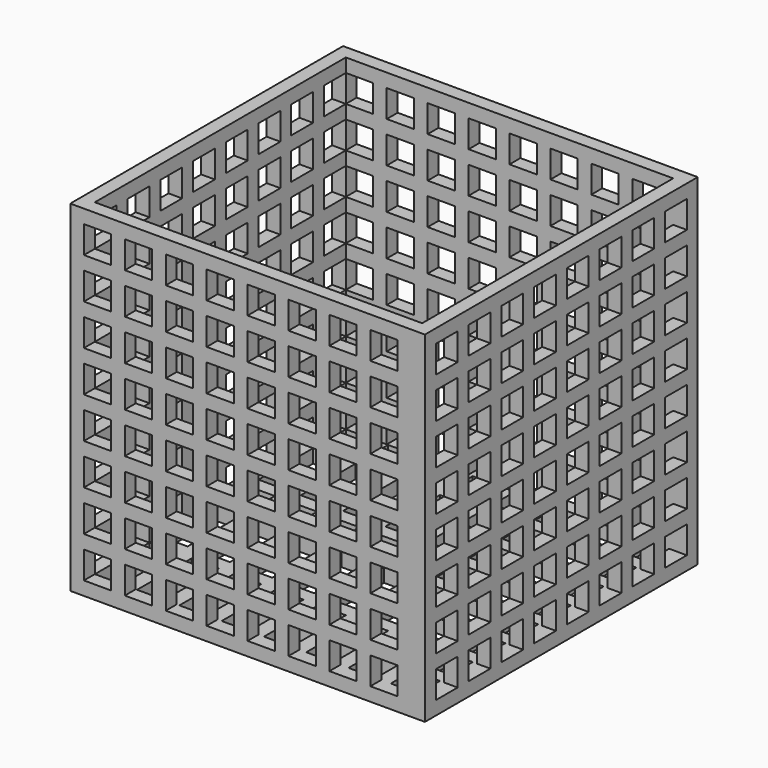
from build123d import *

# Parameters (mm, degrees)
F0_W     = 26
F0_H     = 25
F0_W_2   = 2
F0_H_2   = 2
F1_DEPTH = 1
F2_W     = 26
F2_H     = 25
F3_DEPTH = 24
F4_W     = 2
F4_H     = 2
F5_DEPTH = 30
F6_W     = 2
F6_H     = 2
F7_DEPTH = 30


with BuildPart() as f1:
    # F0 (on Top) → F1 (new body)
    with BuildSketch(Plane.XY):
        Rectangle(F0_W, F0_H)
        with Locations((-11, -10.5)):
            Rectangle(F0_W_2, F0_H_2, mode=Mode.SUBTRACT)
        with Locations((-7.9, -10.5)):
            Rectangle(F0_W_2, F0_H_2, mode=Mode.SUBTRACT)
        with Locations((-11, -7.5)):
            Rectangle(F0_W_2, F0_H_2, mode=Mode.SUBTRACT)
        with Locations((-7.9, -7.5)):
            Rectangle(F0_W_2, F0_H_2, mode=Mode.SUBTRACT)
        with Locations((-4.8, -10.5)):
            Rectangle(F0_W_2, F0_H_2, mode=Mode.SUBTRACT)
        with Locations((-1.7, -10.5)):
            Rectangle(F0_W_2, F0_H_2, mode=Mode.SUBTRACT)
        with Locations((-4.8, -7.5)):
            Rectangle(F0_W_2, F0_H_2, mode=Mode.SUBTRACT)
        with Locations((-1.7, -7.5)):
            Rectangle(F0_W_2, F0_H_2, mode=Mode.SUBTRACT)
        with Locations((-11, -4.5)):
            Rectangle(F0_W_2, F0_H_2, mode=Mode.SUBTRACT)
        with Locations((-7.9, -4.5)):
            Rectangle(F0_W_2, F0_H_2, mode=Mode.SUBTRACT)
        with Locations((-11, -1.5)):
            Rectangle(F0_W_2, F0_H_2, mode=Mode.SUBTRACT)
        with Locations((-7.9, -1.5)):
            Rectangle(F0_W_2, F0_H_2, mode=Mode.SUBTRACT)
        with Locations((-4.8, -4.5)):
            Rectangle(F0_W_2, F0_H_2, mode=Mode.SUBTRACT)
        with Locations((-1.7, -4.5)):
            Rectangle(F0_W_2, F0_H_2, mode=Mode.SUBTRACT)
        with Locations((-4.8, -1.5)):
            Rectangle(F0_W_2, F0_H_2, mode=Mode.SUBTRACT)
        with Locations((-1.7, -1.5)):
            Rectangle(F0_W_2, F0_H_2, mode=Mode.SUBTRACT)
        with Locations((1.4, -10.5)):
            Rectangle(F0_W_2, F0_H_2, mode=Mode.SUBTRACT)
        with Locations((4.5, -10.5)):
            Rectangle(F0_W_2, F0_H_2, mode=Mode.SUBTRACT)
        with Locations((1.4, -7.5)):
            Rectangle(F0_W_2, F0_H_2, mode=Mode.SUBTRACT)
        with Locations((4.5, -7.5)):
            Rectangle(F0_W_2, F0_H_2, mode=Mode.SUBTRACT)
        with Locations((7.6, -10.5)):
            Rectangle(F0_W_2, F0_H_2, mode=Mode.SUBTRACT)
        with Locations((10.7, -10.5)):
            Rectangle(F0_W_2, F0_H_2, mode=Mode.SUBTRACT)
        with Locations((7.6, -7.5)):
            Rectangle(F0_W_2, F0_H_2, mode=Mode.SUBTRACT)
        with Locations((10.7, -7.5)):
            Rectangle(F0_W_2, F0_H_2, mode=Mode.SUBTRACT)
        with Locations((1.4, -4.5)):
            Rectangle(F0_W_2, F0_H_2, mode=Mode.SUBTRACT)
        with Locations((4.5, -4.5)):
            Rectangle(F0_W_2, F0_H_2, mode=Mode.SUBTRACT)
        with Locations((1.4, -1.5)):
            Rectangle(F0_W_2, F0_H_2, mode=Mode.SUBTRACT)
        with Locations((4.5, -1.5)):
            Rectangle(F0_W_2, F0_H_2, mode=Mode.SUBTRACT)
        with Locations((7.6, -4.5)):
            Rectangle(F0_W_2, F0_H_2, mode=Mode.SUBTRACT)
        with Locations((10.7, -4.5)):
            Rectangle(F0_W_2, F0_H_2, mode=Mode.SUBTRACT)
        with Locations((7.6, -1.5)):
            Rectangle(F0_W_2, F0_H_2, mode=Mode.SUBTRACT)
        with Locations((10.7, -1.5)):
            Rectangle(F0_W_2, F0_H_2, mode=Mode.SUBTRACT)
        with Locations((-11, 1.5)):
            Rectangle(F0_W_2, F0_H_2, mode=Mode.SUBTRACT)
        with Locations((-7.9, 1.5)):
            Rectangle(F0_W_2, F0_H_2, mode=Mode.SUBTRACT)
        with Locations((-11, 4.5)):
            Rectangle(F0_W_2, F0_H_2, mode=Mode.SUBTRACT)
        with Locations((-7.9, 4.5)):
            Rectangle(F0_W_2, F0_H_2, mode=Mode.SUBTRACT)
        with Locations((-4.8, 1.5)):
            Rectangle(F0_W_2, F0_H_2, mode=Mode.SUBTRACT)
        with Locations((-1.7, 1.5)):
            Rectangle(F0_W_2, F0_H_2, mode=Mode.SUBTRACT)
        with Locations((-4.8, 4.5)):
            Rectangle(F0_W_2, F0_H_2, mode=Mode.SUBTRACT)
        with Locations((-1.7, 4.5)):
            Rectangle(F0_W_2, F0_H_2, mode=Mode.SUBTRACT)
        with Locations((-11, 7.5)):
            Rectangle(F0_W_2, F0_H_2, mode=Mode.SUBTRACT)
        with Locations((-7.9, 7.5)):
            Rectangle(F0_W_2, F0_H_2, mode=Mode.SUBTRACT)
        with Locations((-11, 10.5)):
            Rectangle(F0_W_2, F0_H_2, mode=Mode.SUBTRACT)
        with Locations((-7.9, 10.5)):
            Rectangle(F0_W_2, F0_H_2, mode=Mode.SUBTRACT)
        with Locations((-4.8, 7.5)):
            Rectangle(F0_W_2, F0_H_2, mode=Mode.SUBTRACT)
        with Locations((-1.7, 7.5)):
            Rectangle(F0_W_2, F0_H_2, mode=Mode.SUBTRACT)
        with Locations((-4.8, 10.5)):
            Rectangle(F0_W_2, F0_H_2, mode=Mode.SUBTRACT)
        with Locations((-1.7, 10.5)):
            Rectangle(F0_W_2, F0_H_2, mode=Mode.SUBTRACT)
        with Locations((1.4, 1.5)):
            Rectangle(F0_W_2, F0_H_2, mode=Mode.SUBTRACT)
        with Locations((4.5, 1.5)):
            Rectangle(F0_W_2, F0_H_2, mode=Mode.SUBTRACT)
        with Locations((1.4, 4.5)):
            Rectangle(F0_W_2, F0_H_2, mode=Mode.SUBTRACT)
        with Locations((4.5, 4.5)):
            Rectangle(F0_W_2, F0_H_2, mode=Mode.SUBTRACT)
        with Locations((7.6, 1.5)):
            Rectangle(F0_W_2, F0_H_2, mode=Mode.SUBTRACT)
        with Locations((10.7, 1.5)):
            Rectangle(F0_W_2, F0_H_2, mode=Mode.SUBTRACT)
        with Locations((7.6, 4.5)):
            Rectangle(F0_W_2, F0_H_2, mode=Mode.SUBTRACT)
        with Locations((10.7, 4.5)):
            Rectangle(F0_W_2, F0_H_2, mode=Mode.SUBTRACT)
        with Locations((1.4, 7.5)):
            Rectangle(F0_W_2, F0_H_2, mode=Mode.SUBTRACT)
        with Locations((4.5, 7.5)):
            Rectangle(F0_W_2, F0_H_2, mode=Mode.SUBTRACT)
        with Locations((1.4, 10.5)):
            Rectangle(F0_W_2, F0_H_2, mode=Mode.SUBTRACT)
        with Locations((4.5, 10.5)):
            Rectangle(F0_W_2, F0_H_2, mode=Mode.SUBTRACT)
        with Locations((7.6, 7.5)):
            Rectangle(F0_W_2, F0_H_2, mode=Mode.SUBTRACT)
        with Locations((10.7, 7.5)):
            Rectangle(F0_W_2, F0_H_2, mode=Mode.SUBTRACT)
        with Locations((7.6, 10.5)):
            Rectangle(F0_W_2, F0_H_2, mode=Mode.SUBTRACT)
        with Locations((10.7, 10.5)):
            Rectangle(F0_W_2, F0_H_2, mode=Mode.SUBTRACT)
    extrude(amount=F1_DEPTH)

    # F2 (on face) → F3 (join)
    with BuildSketch(Plane.XY.offset(1)):
        Rectangle(F2_W, F2_H)
        Polygon((-12, 9.5), (-12, 11.5), (-10, 11.5), (-8.9, 11.5), (-6.9, 11.5), (-5.8, 11.5), (-3.8, 11.5), (-2.7, 11.5), (-0.7, 11.5), (0.4, 11.5), (2.4, 11.5), (3.5, 11.5), (5.5, 11.5), (6.6, 11.5), (8.6, 11.5), (9.7, 11.5), (11.7, 11.5), (12, 11.5), (12, -11.5), (11.7, -11.5), (9.7, -11.5), (8.6, -11.5), (6.6, -11.5), (5.5, -11.5), (3.5, -11.5), (2.4, -11.5), (0.4, -11.5), (-0.7, -11.5), (-2.7, -11.5), (-3.8, -11.5), (-5.8, -11.5), (-6.9, -11.5), (-8.9, -11.5), (-10, -11.5), (-12, -11.5), (-12, -9.5), (-12, -8.5), (-12, -6.5), (-12, -5.5), (-12, -3.5), (-12, -2.5), (-12, -0.5), (-12, 0.5), (-12, 2.5), (-12, 3.5), (-12, 5.5), (-12, 6.5), (-12, 8.5), align=None, mode=Mode.SUBTRACT)
    extrude(amount=F3_DEPTH)

    # F4 (on face) → F5 (cut)
    with BuildSketch(Plane(origin=(-13, 0, 0), x_dir=(0, -1, 0), z_dir=(-1, 0, 0))):
        with Locations((-10.5, 23)):
            Rectangle(F4_W, F4_H)
        with Locations((-7.5, 23)):
            Rectangle(F4_W, F4_H)
        with Locations((-4.5, 23)):
            Rectangle(F4_W, F4_H)
        with Locations((-1.5, 23)):
            Rectangle(F4_W, F4_H)
        with Locations((1.5, 23)):
            Rectangle(F4_W, F4_H)
        with Locations((4.5, 23)):
            Rectangle(F4_W, F4_H)
        with Locations((7.5, 23)):
            Rectangle(F4_W, F4_H)
        with Locations((10.5, 23)):
            Rectangle(F4_W, F4_H)
        with Locations((10.5, 20)):
            Rectangle(F4_W, F4_H)
        with Locations((7.5, 20)):
            Rectangle(F4_W, F4_H)
        with Locations((4.5, 20)):
            Rectangle(F4_W, F4_H)
        with Locations((1.5, 20)):
            Rectangle(F4_W, F4_H)
        with Locations((-1.5, 20)):
            Rectangle(F4_W, F4_H)
        with Locations((-4.5, 20)):
            Rectangle(F4_W, F4_H)
        with Locations((-7.5, 20)):
            Rectangle(F4_W, F4_H)
        with Locations((-10.5, 20)):
            Rectangle(F4_W, F4_H)
        with Locations((-10.5, 17)):
            Rectangle(F4_W, F4_H)
        with Locations((-7.5, 17)):
            Rectangle(F4_W, F4_H)
        with Locations((-4.5, 17)):
            Rectangle(F4_W, F4_H)
        with Locations((-1.5, 17)):
            Rectangle(F4_W, F4_H)
        with Locations((1.5, 17)):
            Rectangle(F4_W, F4_H)
        with Locations((4.5, 17)):
            Rectangle(F4_W, F4_H)
        with Locations((7.5, 17)):
            Rectangle(F4_W, F4_H)
        with Locations((10.5, 17)):
            Rectangle(F4_W, F4_H)
        with Locations((-10.5, 14)):
            Rectangle(F4_W, F4_H)
        with Locations((-7.5, 14)):
            Rectangle(F4_W, F4_H)
        with Locations((-4.5, 14)):
            Rectangle(F4_W, F4_H)
        with Locations((-1.5, 14)):
            Rectangle(F4_W, F4_H)
        with Locations((-1.5, 11)):
            Rectangle(F4_W, F4_H)
        with Locations((-1.5, 8)):
            Rectangle(F4_W, F4_H)
        with Locations((-4.5, 8)):
            Rectangle(F4_W, F4_H)
        with Locations((-4.5, 11)):
            Rectangle(F4_W, F4_H)
        with Locations((-7.5, 11)):
            Rectangle(F4_W, F4_H)
        with Locations((-7.5, 8)):
            Rectangle(F4_W, F4_H)
        with Locations((-10.5, 11)):
            Rectangle(F4_W, F4_H)
        with Locations((-10.5, 8)):
            Rectangle(F4_W, F4_H)
        with Locations((-10.5, 5)):
            Rectangle(F4_W, F4_H)
        with Locations((-10.5, 2)):
            Rectangle(F4_W, F4_H)
        with Locations((-7.5, 2)):
            Rectangle(F4_W, F4_H)
        with Locations((-4.5, 2)):
            Rectangle(F4_W, F4_H)
        with Locations((-7.5, 5)):
            Rectangle(F4_W, F4_H)
        with Locations((-4.5, 5)):
            Rectangle(F4_W, F4_H)
        with Locations((-1.5, 5)):
            Rectangle(F4_W, F4_H)
        with Locations((-1.5, 2)):
            Rectangle(F4_W, F4_H)
        with Locations((1.5, 2)):
            Rectangle(F4_W, F4_H)
        with Locations((1.5, 5)):
            Rectangle(F4_W, F4_H)
        with Locations((4.5, 2)):
            Rectangle(F4_W, F4_H)
        with Locations((4.5, 5)):
            Rectangle(F4_W, F4_H)
        with Locations((4.5, 8)):
            Rectangle(F4_W, F4_H)
        with Locations((4.5, 14)):
            Rectangle(F4_W, F4_H)
        with Locations((10.5, 8)):
            Rectangle(F4_W, F4_H)
        with Locations((10.5, 5)):
            Rectangle(F4_W, F4_H)
        with Locations((10.5, 2)):
            Rectangle(F4_W, F4_H)
        with Locations((7.5, 2)):
            Rectangle(F4_W, F4_H)
        with Locations((7.5, 5)):
            Rectangle(F4_W, F4_H)
        with Locations((7.5, 8)):
            Rectangle(F4_W, F4_H)
        with Locations((7.5, 11)):
            Rectangle(F4_W, F4_H)
        with Locations((7.5, 14)):
            Rectangle(F4_W, F4_H)
        with Locations((4.5, 11)):
            Rectangle(F4_W, F4_H)
        with Locations((1.5, 14)):
            Rectangle(F4_W, F4_H)
        with Locations((1.5, 11)):
            Rectangle(F4_W, F4_H)
        with Locations((1.5, 8)):
            Rectangle(F4_W, F4_H)
        with Locations((10.5, 14)):
            Rectangle(F4_W, F4_H)
        with Locations((10.5, 11)):
            Rectangle(F4_W, F4_H)
    extrude(amount=-F5_DEPTH, mode=Mode.SUBTRACT)

    # F6 (on face) → F7 (cut)
    with BuildSketch(Plane.XZ.offset(12.5)):
        with Locations((-8, 2)):
            Rectangle(F6_W, F6_H)
        with Locations((-8, 5)):
            Rectangle(F6_W, F6_H)
        with Locations((-8, 8)):
            Rectangle(F6_W, F6_H)
        with Locations((-8, 11)):
            Rectangle(F6_W, F6_H)
        with Locations((-8, 14)):
            Rectangle(F6_W, F6_H)
        with Locations((-8, 17)):
            Rectangle(F6_W, F6_H)
        with Locations((-8, 20)):
            Rectangle(F6_W, F6_H)
        with Locations((-8, 23)):
            Rectangle(F6_W, F6_H)
        with Locations((-5, 2)):
            Rectangle(F6_W, F6_H)
        with Locations((-5, 5)):
            Rectangle(F6_W, F6_H)
        with Locations((-5, 8)):
            Rectangle(F6_W, F6_H)
        with Locations((4, 11)):
            Rectangle(F6_W, F6_H)
        with Locations((4, 14)):
            Rectangle(F6_W, F6_H)
        with Locations((4, 17)):
            Rectangle(F6_W, F6_H)
        with Locations((4, 20)):
            Rectangle(F6_W, F6_H)
        with Locations((4, 23)):
            Rectangle(F6_W, F6_H)
        with Locations((7, 2)):
            Rectangle(F6_W, F6_H)
        with Locations((7, 5)):
            Rectangle(F6_W, F6_H)
        with Locations((7, 8)):
            Rectangle(F6_W, F6_H)
        with Locations((7, 11)):
            Rectangle(F6_W, F6_H)
        with Locations((7, 14)):
            Rectangle(F6_W, F6_H)
        with Locations((7, 17)):
            Rectangle(F6_W, F6_H)
        with Locations((7, 20)):
            Rectangle(F6_W, F6_H)
        with Locations((7, 23)):
            Rectangle(F6_W, F6_H)
        with Locations((4, 8)):
            Rectangle(F6_W, F6_H)
        with Locations((4, 5)):
            Rectangle(F6_W, F6_H)
        with Locations((4, 2)):
            Rectangle(F6_W, F6_H)
        with Locations((1, 23)):
            Rectangle(F6_W, F6_H)
        with Locations((1, 20)):
            Rectangle(F6_W, F6_H)
        with Locations((1, 17)):
            Rectangle(F6_W, F6_H)
        with Locations((1, 14)):
            Rectangle(F6_W, F6_H)
        with Locations((1, 11)):
            Rectangle(F6_W, F6_H)
        with Locations((1, 8)):
            Rectangle(F6_W, F6_H)
        with Locations((1, 5)):
            Rectangle(F6_W, F6_H)
        with Locations((1, 2)):
            Rectangle(F6_W, F6_H)
        with Locations((-2, 23)):
            Rectangle(F6_W, F6_H)
        with Locations((-2, 20)):
            Rectangle(F6_W, F6_H)
        with Locations((-2, 17)):
            Rectangle(F6_W, F6_H)
        with Locations((-2, 14)):
            Rectangle(F6_W, F6_H)
        with Locations((-2, 11)):
            Rectangle(F6_W, F6_H)
        with Locations((-2, 8)):
            Rectangle(F6_W, F6_H)
        with Locations((-2, 5)):
            Rectangle(F6_W, F6_H)
        with Locations((-2, 2)):
            Rectangle(F6_W, F6_H)
        with Locations((-5, 23)):
            Rectangle(F6_W, F6_H)
        with Locations((-5, 20)):
            Rectangle(F6_W, F6_H)
        with Locations((-5, 17)):
            Rectangle(F6_W, F6_H)
        with Locations((-5, 14)):
            Rectangle(F6_W, F6_H)
        with Locations((-5, 11)):
            Rectangle(F6_W, F6_H)
        with Locations((-11, 23)):
            Rectangle(F6_W, F6_H)
        with Locations((-11, 20)):
            Rectangle(F6_W, F6_H)
        with Locations((-11, 17)):
            Rectangle(F6_W, F6_H)
        with Locations((-11, 14)):
            Rectangle(F6_W, F6_H)
        with Locations((-11, 11)):
            Rectangle(F6_W, F6_H)
        with Locations((-11, 8)):
            Rectangle(F6_W, F6_H)
        with Locations((-11, 5)):
            Rectangle(F6_W, F6_H)
        with Locations((-11, 2)):
            Rectangle(F6_W, F6_H)
        with Locations((10, 2)):
            Rectangle(F6_W, F6_H)
        with Locations((10, 5)):
            Rectangle(F6_W, F6_H)
        with Locations((10, 8)):
            Rectangle(F6_W, F6_H)
        with Locations((10, 11)):
            Rectangle(F6_W, F6_H)
        with Locations((10, 14)):
            Rectangle(F6_W, F6_H)
        with Locations((10, 17)):
            Rectangle(F6_W, F6_H)
        with Locations((10, 20)):
            Rectangle(F6_W, F6_H)
        with Locations((10, 23)):
            Rectangle(F6_W, F6_H)
    extrude(amount=-F7_DEPTH, mode=Mode.SUBTRACT)


solid = f1.part
